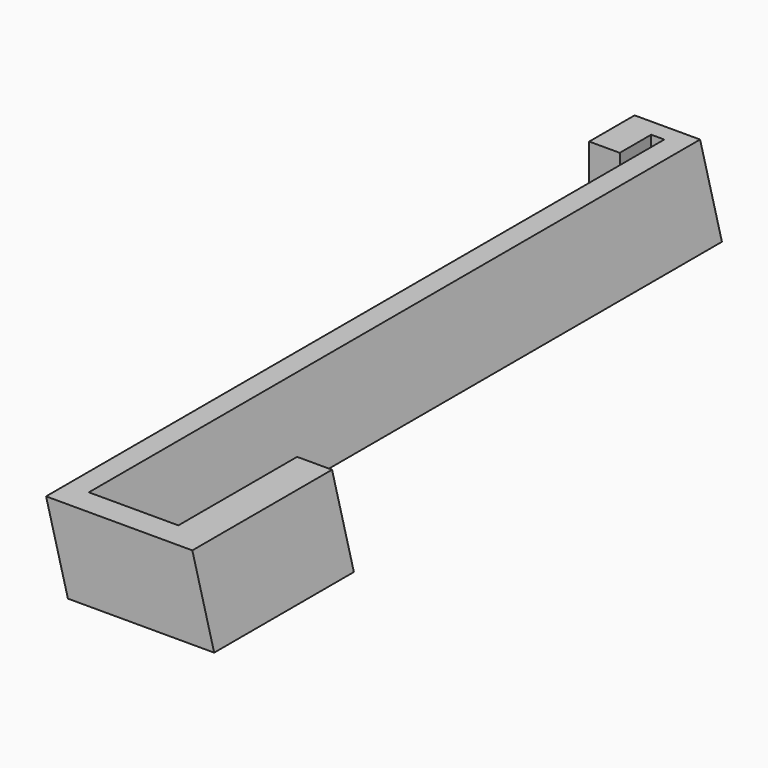
from build123d import *

# Parameters (mm, degrees)
F4_W     = 3
F4_H     = 9
F5_DEPTH = 25


with BuildPart() as f3:
    # F0 (on Top) → F3 section 0
    with BuildSketch(Plane.XY):
        Polygon((-35.883552, 29.228954), (-20.883552, 29.228954), (-20.883552, -138.771046), (12.616448, -138.771046), (12.616448, -98.771046), (4.616448, -98.771046), (4.616448, -132.771046), (-15.883552, -132.771046), (-15.883552, 42.228954), (-35.883552, 42.228954), align=None)
    # F2 (on offset) → F3 section 1
    with BuildSketch(Plane.XY.offset(19)):
        Polygon((-35.883552, 29.228954), (-25.883552, 29.228954), (-25.883552, -138.771046), (7.616448, -138.771046), (7.616448, -98.771046), (-0.383552, -98.771046), (-0.383552, -132.771046), (-20.883552, -132.771046), (-20.883552, 42.228954), (-35.883552, 42.228954), align=None)
    loft()

    # F4 (on face) → F5 (cut)
    with BuildSketch(Plane.XY.offset(19)):
        with Locations((-27.383552, 33.728954)):
            Rectangle(F4_W, F4_H)
    extrude(amount=-F5_DEPTH, mode=Mode.SUBTRACT)


solid = f3.part
